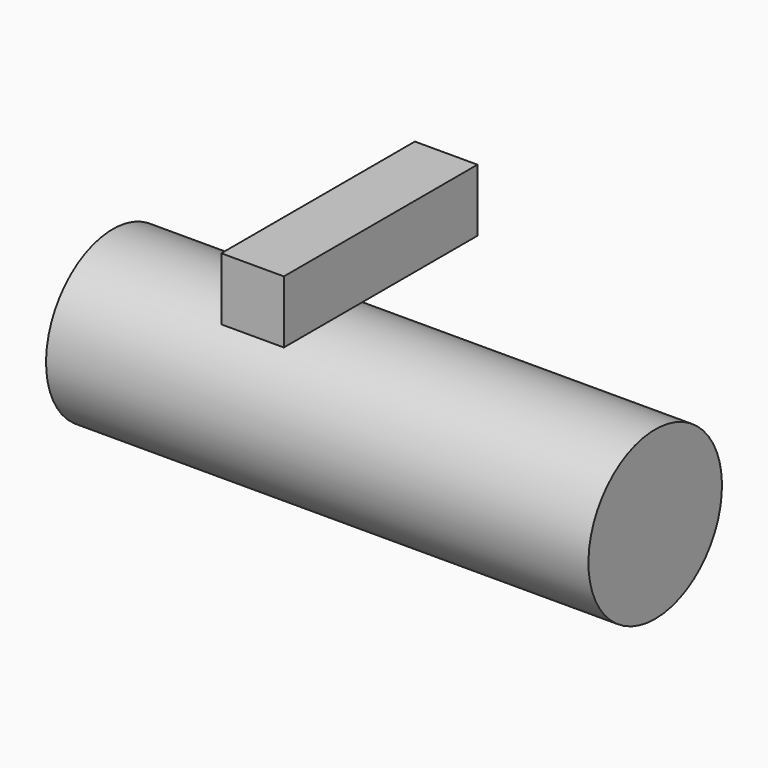
from build123d import *

# Parameters (mm, degrees)
BOX002_W          = 15
BOX002_H          = 58
BOX002_DEPTH      = 15
CYLINDER007_R     = 20
CYLINDER007_DEPTH = 130


with BuildPart() as cube:
    # Box002 → Box002 (new body)
    with BuildSketch(Plane(origin=(46, -25, 25), x_dir=(1, 0, 0), z_dir=(0, 0, 1))):
        with Locations((7.5, 29)):
            Rectangle(BOX002_W, BOX002_H)
    extrude(amount=BOX002_DEPTH)


with BuildPart() as obj1:
    # Cylinder007 → Cylinder007 (new body)
    with BuildSketch(Plane(origin=(0, 0, 0), x_dir=(0, 0, -1), z_dir=(1, 0, 0))):
        Circle(CYLINDER007_R)
    extrude(amount=CYLINDER007_DEPTH)

    # Fusion002: union Cube
    add(cube.part)


with BuildPart() as obj1_1:
    # Fusion002 placement: moved
    add(obj1.part.moved(Location((600, -120, -550))))


solid = obj1_1.part
